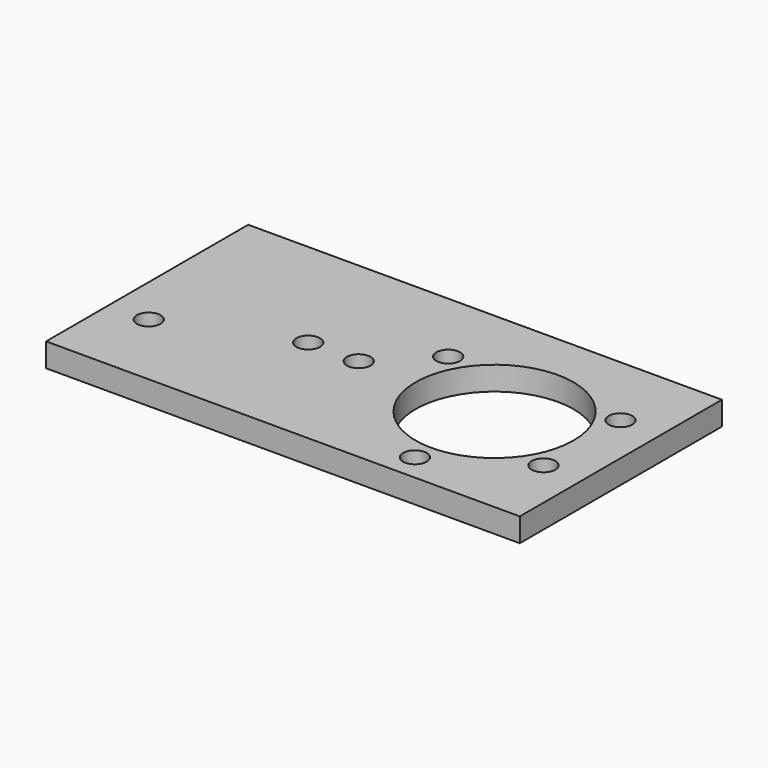
from build123d import *

# Parameters (mm, degrees)
SKETCH_W   = 60
SKETCH_H   = 32
SKETCH_R   = 1.5
SKETCH_R_2 = 10
PAD_DEPTH  = 3


with BuildPart() as part:
    # Sketch → Pad (new body)
    with BuildSketch(Plane.XY):
        with Locations((30, 16)):
            Rectangle(SKETCH_W, SKETCH_H)
        with Locations((33.08808, 22.3)):
            Circle(SKETCH_R, mode=Mode.SUBTRACT)
        with Locations((54.91192, 22.3)):
            Circle(SKETCH_R, mode=Mode.SUBTRACT)
        with Locations((44, 3.4)):
            Circle(SKETCH_R, mode=Mode.SUBTRACT)
        with Locations((55, 10)):
            Circle(SKETCH_R, mode=Mode.SUBTRACT)
        with Locations((5, 10)):
            Circle(SKETCH_R, mode=Mode.SUBTRACT)
        with Locations((44, 16)):
            Circle(SKETCH_R_2, mode=Mode.SUBTRACT)
        with Locations((20.4, 16)):
            Circle(SKETCH_R, mode=Mode.SUBTRACT)
        with Locations((26.8, 16)):
            Circle(SKETCH_R, mode=Mode.SUBTRACT)
    extrude(amount=PAD_DEPTH)


solid = part.part
